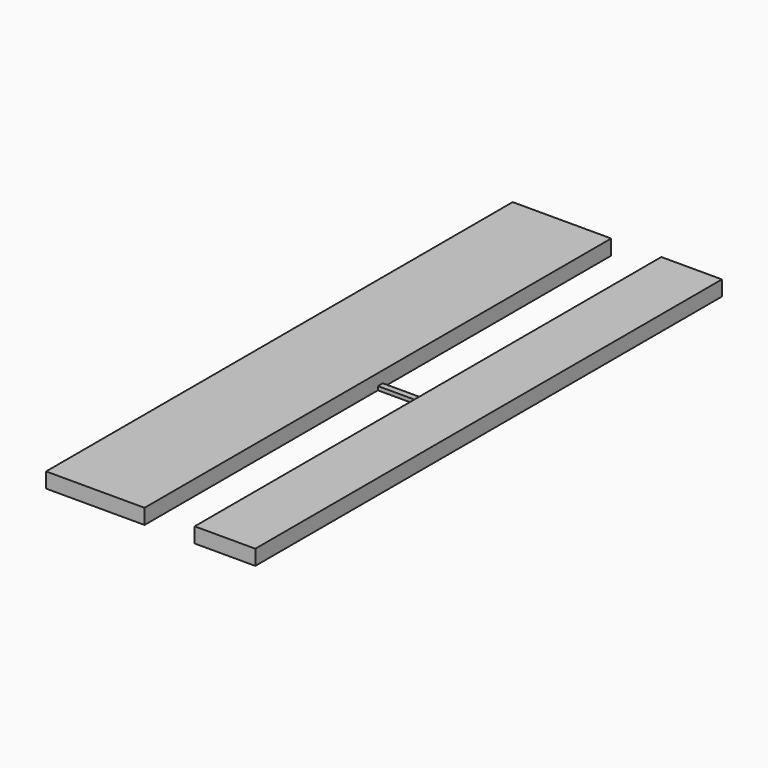
from build123d import *

# Parameters (mm, degrees)
F0_W     = 6.621034
F0_H     = 0.8
F1_DEPTH = 0.5
F2_DEPTH = 2


with BuildPart() as f1:
    # F0 (on Top) → F1 (new body)
    with BuildSketch(Plane.XY):
        with Locations((-64.339851, -5.981977)):
            Rectangle(F0_W, F0_H)
    extrude(amount=F1_DEPTH)

    # F0 (on Top) → F2 (join)
    with BuildSketch(Plane.XY):
        Polygon((-67.650368, 32.118023), (-80.650368, 32.118023), (-80.650368, -44.881977), (-67.650368, -44.881977), (-67.650368, -6.381977), (-67.650368, -5.581977), align=None)
        Polygon((-61.029334, 32.118023), (-61.029334, -5.581977), (-61.029334, -6.381977), (-61.029334, -44.881977), (-53.029334, -44.881977), (-53.029334, 32.118023), align=None)
    extrude(amount=F2_DEPTH)


solid = f1.part
